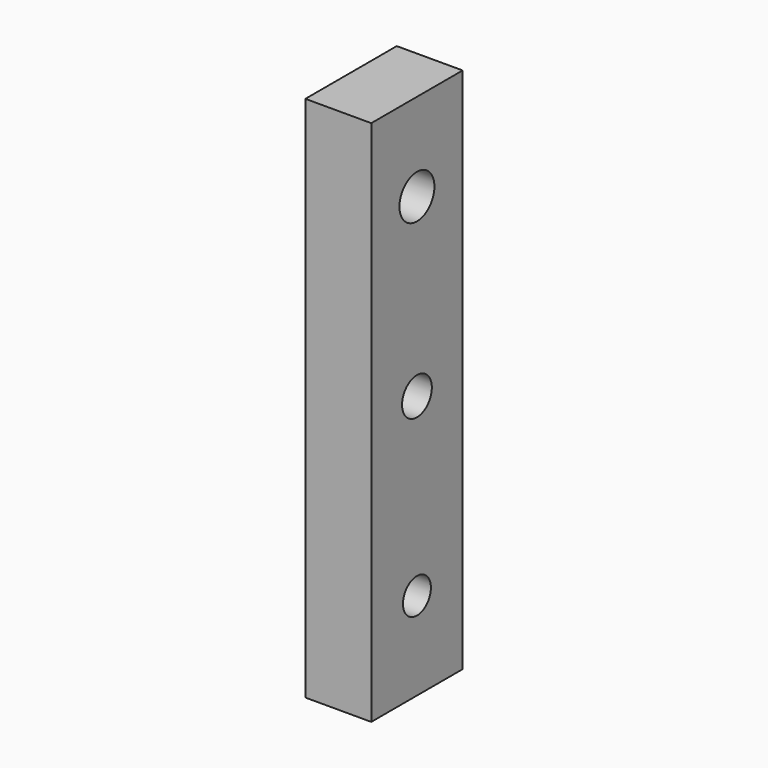
from build123d import *

# Parameters (mm, degrees)
F0_W     = 16.51
F0_H     = 76.2
F0_R     = 2.52436
F0_R_2   = 2.690087
F0_R_3   = 3.157328
F1_DEPTH = 9.525


with BuildPart() as f1:
    # F0 (on Right) → F1 (new body)
    with BuildSketch(Plane.YZ):
        with Locations((-8.255, 38.1)):
            Rectangle(F0_W, F0_H)
        with Locations((-8.255, 12.7)):
            Circle(F0_R, mode=Mode.SUBTRACT)
        with Locations((-8.255, 38.1)):
            Circle(F0_R_2, mode=Mode.SUBTRACT)
        with Locations((-8.255, 63.5)):
            Circle(F0_R_3, mode=Mode.SUBTRACT)
    extrude(amount=F1_DEPTH)


solid = f1.part
